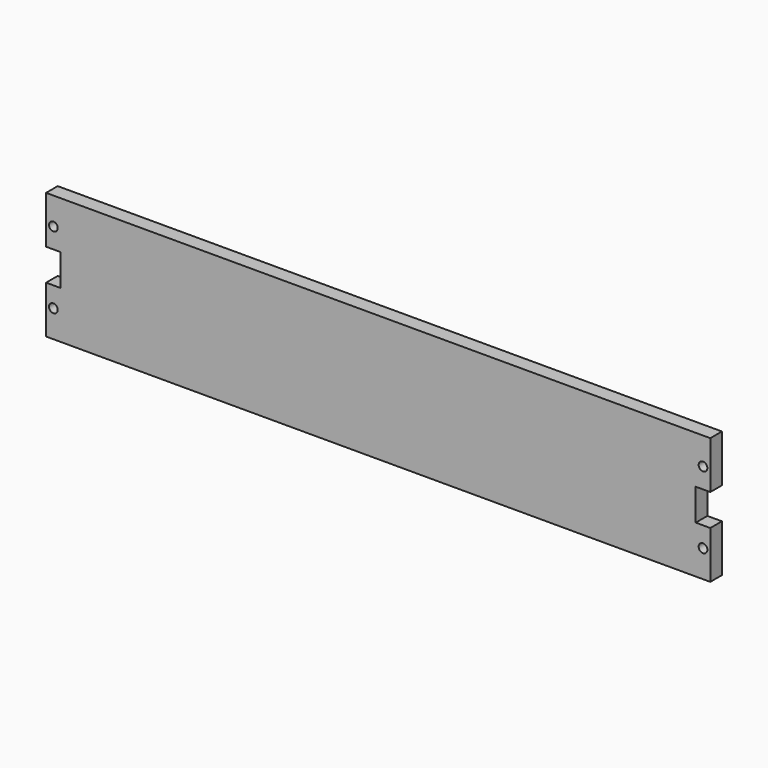
from build123d import *

# Parameters (mm, degrees)
F0_R     = 1.7526
F1_DEPTH = 5.842


with BuildPart() as f1:
    # F0 (on Front) → F1 (new body)
    with BuildSketch(Plane.XZ):
        Polygon((133.35, 25.4), (-133.35, 25.4), (-133.35, 6.35), (-127.508, 6.35), (-127.508, -6.35), (-133.35, -6.35), (-133.35, -25.4), (133.35, -25.4), (133.35, -6.35), (127.508, -6.35), (127.508, 6.35), (133.35, 6.35), align=None)
        with Locations((-130.429, -14.4526)):
            Circle(F0_R, mode=Mode.SUBTRACT)
        with Locations((130.429, -14.4526)):
            Circle(F0_R, mode=Mode.SUBTRACT)
        with Locations((-130.429, 14.4526)):
            Circle(F0_R, mode=Mode.SUBTRACT)
        with Locations((130.429, 14.4526)):
            Circle(F0_R, mode=Mode.SUBTRACT)
    extrude(amount=F1_DEPTH)


solid = f1.part
